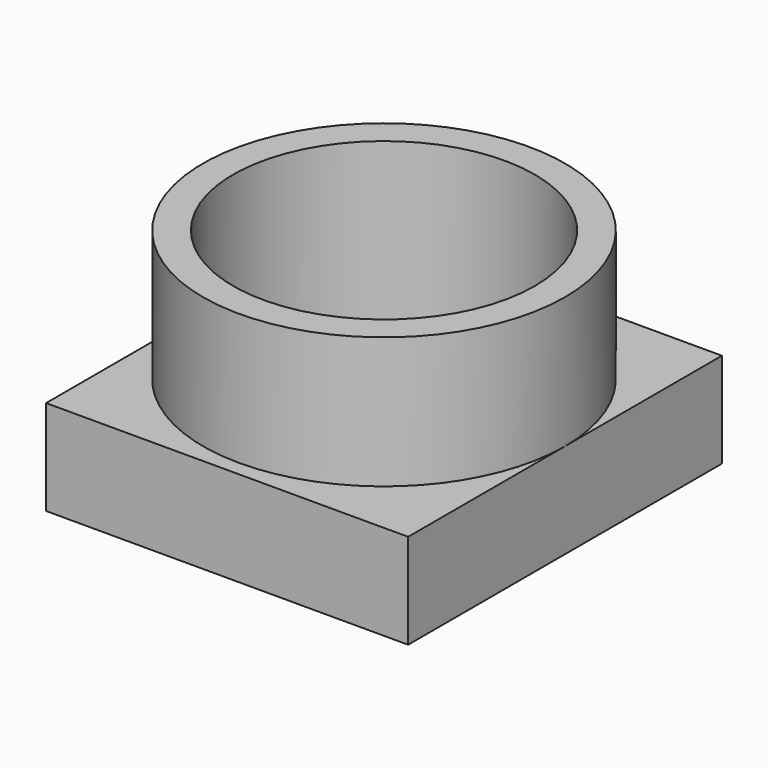
from build123d import *

# Parameters (mm, degrees)
F0_W     = 12
F0_H     = 13
F0_W_2   = 11.1
F0_H_2   = 12.1
F0_W_3   = 7.2
F0_H_3   = 5.4
F1_DEPTH = 3.15
F2_DEPTH = 0.9
F3_R     = 5
F4_DEPTH = 4.35
F5_DEPTH = 1.9


with BuildPart() as f1:
    # F0 (on Top) → F1 (new body)
    with BuildSketch(Plane.XY):
        Rectangle(F0_W, F0_H)
        Rectangle(F0_W_2, F0_H_2, mode=Mode.SUBTRACT)
        Rectangle(F0_W_2, F0_H_2)
        Rectangle(F0_W_3, F0_H_3, mode=Mode.SUBTRACT)
    extrude(amount=F1_DEPTH)

    # F0 (on Top) → F2 (cut)
    with BuildSketch(Plane.XY):
        Rectangle(F0_W_2, F0_H_2)
        Rectangle(F0_W_3, F0_H_3, mode=Mode.SUBTRACT)
    extrude(amount=F2_DEPTH, mode=Mode.SUBTRACT)

    # F3 (on face) → F4 (join)
    with BuildSketch(Plane.XY.offset(3.15)):
        with BuildLine():
            ThreePointArc((-6, 0), (0, -6), (6, 0))
            ThreePointArc((6, 0), (0, 6), (-6, 0))
        make_face()
        Circle(F3_R, mode=Mode.SUBTRACT)
    extrude(amount=F4_DEPTH)

    # F5 (cut): a face of the model
    f5_faces = [f1.faces().sort_by_distance(p)[0] for p in [
        (-4.8585786438, 0, 3.15),
    ]]
    extrude(f5_faces, amount=-F5_DEPTH, mode=Mode.SUBTRACT)


solid = f1.part
